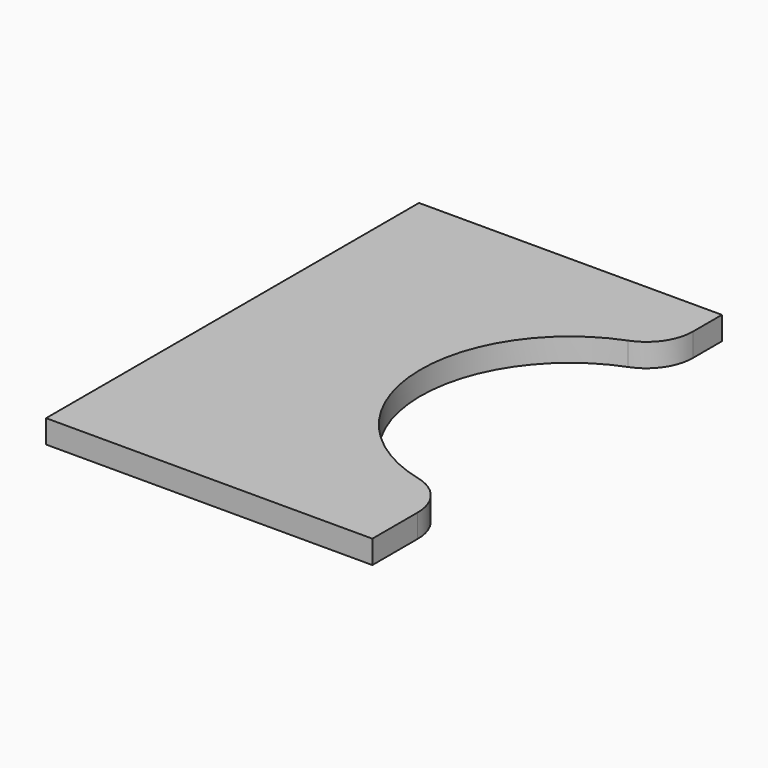
from build123d import *

# Parameters (mm, degrees)
F1_DEPTH = 4.99


with BuildPart() as f1:
    # F0 (on Top) → F1 (new body)
    with BuildSketch(Plane.XY):
        with BuildLine():
            Line((36.402646, 47.020067), (-28.597354, 47.020067))
            Line((-28.597354, 47.020067), (-28.597354, -52.979933))
            Line((-28.597354, -52.979933), (41.402646, -52.979933))
            Line((41.402646, -52.979933), (41.402646, -40.812817))
            ThreePointArc((41.402646, -40.812817), (39.270242, -34.640222), (33.782461, -31.10012))
            ThreePointArc((33.782461, -31.10012), (9.444835, -1.995757), (29.972369, 29.910424))
            ThreePointArc((29.972369, 29.910424), (34.639673, 33.581354), (36.402646, 39.251574))
            Line((36.402646, 39.251574), (36.402646, 47.020067))
        make_face()
    extrude(amount=F1_DEPTH)


solid = f1.part
